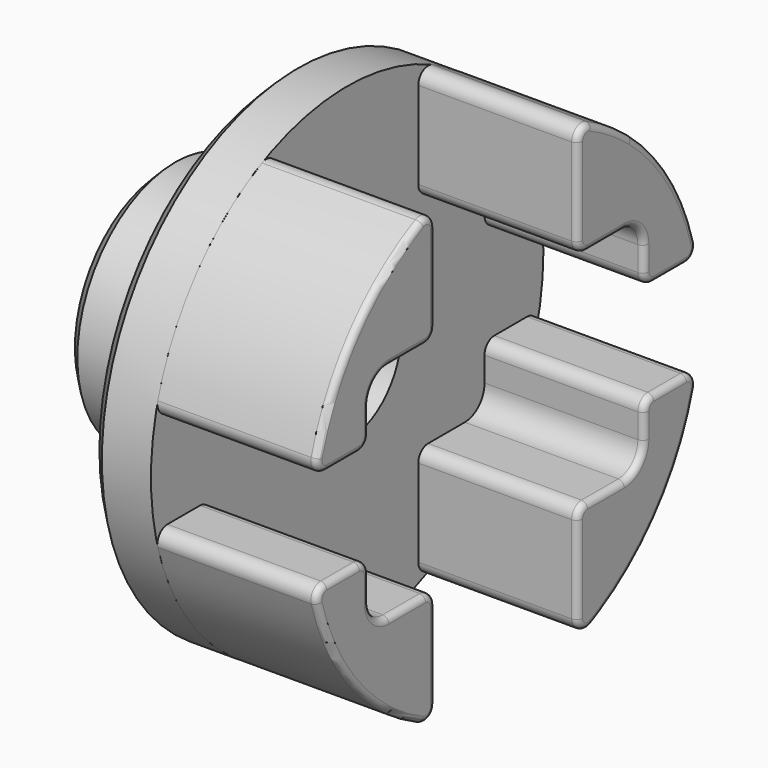
from build123d import *

# Parameters (mm, degrees)
F0_W              = 10
F0_H              = 10
F4_R              = 20
F5_DEPTH          = 5
F7_DEPTH          = 13
F8_R              = 0.5
F10_SIZE          = 1
F10_2_SIZE        = 1
F12_D             = 6.6
F12_CBORE_D       = 11
F12_CBORE_DEPTH   = 7
F12_2_D           = 6.6
F12_2_CBORE_D     = 11
F12_2_CBORE_DEPTH = 7


with BuildPart() as f1:
    # F0 (on Front) → F1 (revolve)
    with BuildSketch(Plane.XZ):
        with Locations((5, 5)):
            Rectangle(F0_W, F0_H)
    revolve(axis=Axis((25.892217, 0, 0), (1, 0, 0)))

    # F10
    f10_edges = [f1.edges().sort_by_distance(p)[0] for p in [
        (0, 0, -10),
    ]]
    chamfer(f10_edges, length=F10_SIZE)

    # F12 (through all)
    with Locations(Plane.YZ.offset(15)):
        with Locations((0, 0)):
            CounterBoreHole(F12_D / 2, F12_CBORE_D / 2, F12_CBORE_DEPTH)


with BuildPart() as f5:
    # F4 (on face) → F5 (new body)
    with BuildSketch(Plane.YZ.offset(10)):
        Circle(F4_R)
    extrude(amount=F5_DEPTH)

    # F10#2
    f10_2_edges = [f5.edges().sort_by_distance(p)[0] for p in [
        (10, -20, 0),
    ]]
    chamfer(f10_2_edges, length=F10_2_SIZE)

    # F12#2 (through all)
    with Locations(Plane.YZ.offset(15)):
        with Locations((0, 0)):
            CounterBoreHole(F12_2_D / 2, F12_2_CBORE_D / 2, F12_2_CBORE_DEPTH)


with BuildPart() as f7:
    # F6 (on face) → F7 (new body)
    with BuildSketch(Plane.YZ.offset(15)):
        with BuildLine():
            Line((-7.25, -17.115417), (-7.25, -10))
            ThreePointArc((-7.25, -10), (-7.542893, -9.292893), (-8.25, -9))
            Line((-8.25, -9), (-12, -9))
            ThreePointArc((-12, -9), (-13.414214, -8.414214), (-14, -7))
            Line((-14, -7), (-14, -5))
            ThreePointArc((-14, -5), (-14.292893, -4.292893), (-15, -4))
            Line((-15, -4), (-18.330303, -4))
            ThreePointArc((-18.330303, -4), (-19.125022, -4.393023), (-19.295056, -5.263158))
            ThreePointArc((-19.295056, -5.263158), (-15.37433, -12.791793), (-8.684211, -18.016228))
            ThreePointArc((-8.684211, -18.016228), (-7.718122, -17.962238), (-7.25, -17.115417))
        make_face()
        with BuildLine():
            ThreePointArc((8.684211, -18.016228), (9.127511, -17.795745), (9.565217, -17.564356))
            ThreePointArc((9.565217, -17.564356), (15.686259, -12.407308), (19.295056, -5.263158))
            ThreePointArc((19.295056, -5.263158), (19.125022, -4.393023), (18.330303, -4))
            Line((18.330303, -4), (15, -4))
            ThreePointArc((15, -4), (14.292893, -4.292893), (14, -5))
            Line((14, -5), (14, -7))
            ThreePointArc((14, -7), (13.414214, -8.414214), (12, -9))
            Line((12, -9), (8.25, -9))
            ThreePointArc((8.25, -9), (7.542893, -9.292893), (7.25, -10))
            Line((7.25, -10), (7.25, -17.115417))
            ThreePointArc((7.25, -17.115417), (7.718122, -17.962238), (8.684211, -18.016228))
        make_face()
        with BuildLine():
            ThreePointArc((18.330303, 4), (19.125022, 4.393023), (19.295056, 5.263158))
            ThreePointArc((19.295056, 5.263158), (16.824018, 10.814455), (12.8, 15.367498))
            ThreePointArc((12.8, 15.367498), (10.823436, 16.818241), (8.684211, 18.016228))
            ThreePointArc((8.684211, 18.016228), (7.718122, 17.962238), (7.25, 17.115417))
            Line((7.25, 17.115417), (7.25, 10))
            ThreePointArc((7.25, 10), (7.542893, 9.292893), (8.25, 9))
            Line((8.25, 9), (12, 9))
            ThreePointArc((12, 9), (13.414214, 8.414214), (14, 7))
            Line((14, 7), (14, 5))
            ThreePointArc((14, 5), (14.292893, 4.292893), (15, 4))
            Line((15, 4), (18.330303, 4))
        make_face()
        with BuildLine():
            ThreePointArc((-19.295056, 5.263158), (-19.125022, 4.393023), (-18.330303, 4))
            Line((-18.330303, 4), (-15, 4))
            ThreePointArc((-15, 4), (-14.292893, 4.292893), (-14, 5))
            Line((-14, 5), (-14, 7))
            ThreePointArc((-14, 7), (-13.414214, 8.414214), (-12, 9))
            Line((-12, 9), (-8.25, 9))
            ThreePointArc((-8.25, 9), (-7.542893, 9.292893), (-7.25, 10))
            Line((-7.25, 10), (-7.25, 17.115417))
            ThreePointArc((-7.25, 17.115417), (-7.718122, 17.962238), (-8.684211, 18.016228))
            ThreePointArc((-8.684211, 18.016228), (-15.37433, 12.791793), (-19.295056, 5.263158))
        make_face()
    extrude(amount=F7_DEPTH)

    # F8
    f8_edges = [f7.edges().sort_by_distance(p)[0] for p in [
        (28, -16.665151, 4),
        (28, -19.125022, 4.393023),
        (28, -15.37433, 12.791793),
        (28, -7.718122, 17.962238),
        (28, -15.37433, -12.791793),
        (28, 15.37433, -12.791793),
        (28, 15.37433, 12.791793),
    ]]
    fillet(f8_edges, radius=F8_R)


solid = Compound([f1.part, f5.part, f7.part])
